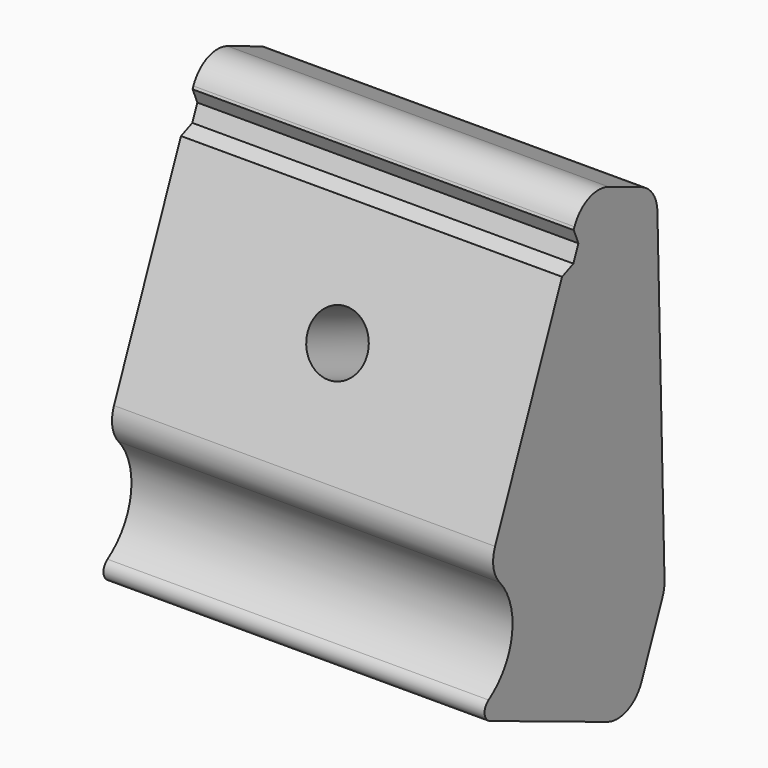
from build123d import *

# Parameters (mm, degrees)
PAD001_DEPTH        = 35
HOLE002_D           = 5.5
HOLE002_CSINK_D     = 10
HOLE002_CSINK_ANGLE = 90
SKETCH004_R         = 6.501169
SKETCH004_R_2       = 5.481256
POCKET_DEPTH        = 12.8390795694
SKETCH007_W         = 3.5
SKETCH007_H         = 35
POCKET002_DEPTH     = 1
CHAMFER_SIZE        = 0.99
FILLET007_R         = 3
FILLET008_R         = 1


with BuildPart() as part:
    # Sketch002 → Pad001 (new body)
    with BuildSketch(Plane.YZ):
        with BuildLine():
            Line((-191.8299400553, 608.417587482), (-180.7534222613, 635.3096898309))
            Line((-172.4316788603, 631.8820686779), (-180.7534222613, 635.3096898309))
            Line((-171.5440233176, 599.0713301394), (-172.4316788603, 631.8820686779))
            Line((-175.3524912653, 589.8249485827), (-171.5440233176, 599.0713301394))
            Line((-193.8452543786, 597.4418844782), (-175.3524912653, 589.8249485827))
            ThreePointArc((-193.8452543786, 597.4418844782), (-189.1063549521, 602.2446203225), (-191.8299400553, 608.417587482))
        make_face()
    extrude(amount=PAD001_DEPTH)

    # Hole002 (through all)
    with Locations(Plane(origin=(0, -366.2373103971, 150.8485291635), x_dir=(0, 0.3808467948, 0.9246381557), z_dir=(0, 0.9246381557, -0.3808467948))):
        with Locations((-506.967621, 13.13074), (501.5922183693, 17.5)):
            CounterSinkHole(HOLE002_D / 2, HOLE002_CSINK_D / 2, counter_sink_angle=HOLE002_CSINK_ANGLE)

    # Sketch004 (on DatumPlane) → Pocket (cut, through all)
    with BuildSketch(Plane(origin=(0, -366.2373103971, 150.8485291635), x_dir=(0, 0.3808467948, 0.9246381557), z_dir=(0, 0.9246381557, -0.3808467948))):
        with Locations((-506.967621, 13.13074)):
            Circle(SKETCH004_R)
        with Locations((501.5922183693, 17.5)):
            Circle(SKETCH004_R_2)
    extrude(amount=POCKET_DEPTH, mode=Mode.SUBTRACT)

    # Sketch007 (on Face6 of Pocket) → Pocket002 (cut)
    with BuildSketch(Plane(origin=(0, -378.2576064208, 155.7995374955), x_dir=(0, -0.3808467948, -0.9246381557), z_dir=(0, -0.9246381557, 0.3808467948))):
        with Locations((-513.5922183693, 17.5)):
            Rectangle(SKETCH007_W, SKETCH007_H)
    extrude(amount=-POCKET002_DEPTH, mode=Mode.SUBTRACT)

    # Chamfer
    chamfer_edges = [part.edges().sort_by_distance(p)[0] for p in [
        (17.5, -181.066536, 631.923769),
        (17.5, -182.3995, 628.687535),
    ]]
    chamfer(chamfer_edges, length=CHAMFER_SIZE)

    # Fillet007
    fillet007_edges = [part.edges().sort_by_distance(p)[0] for p in [
        (17.5, -175.352491, 589.824949),
        (17.5, -191.82994, 608.417587),
        (17.5, -171.544023, 599.07133),
        (17.5, -172.431679, 631.882069),
        (17.5, -180.753422, 635.30969),
    ]]
    fillet(fillet007_edges, radius=FILLET007_R)

    # Fillet008
    fillet008_edges = [part.edges().sort_by_distance(p)[0] for p in [
        (17.5, -193.845254, 597.441884),
    ]]
    fillet(fillet008_edges, radius=FILLET008_R)


solid = part.part
